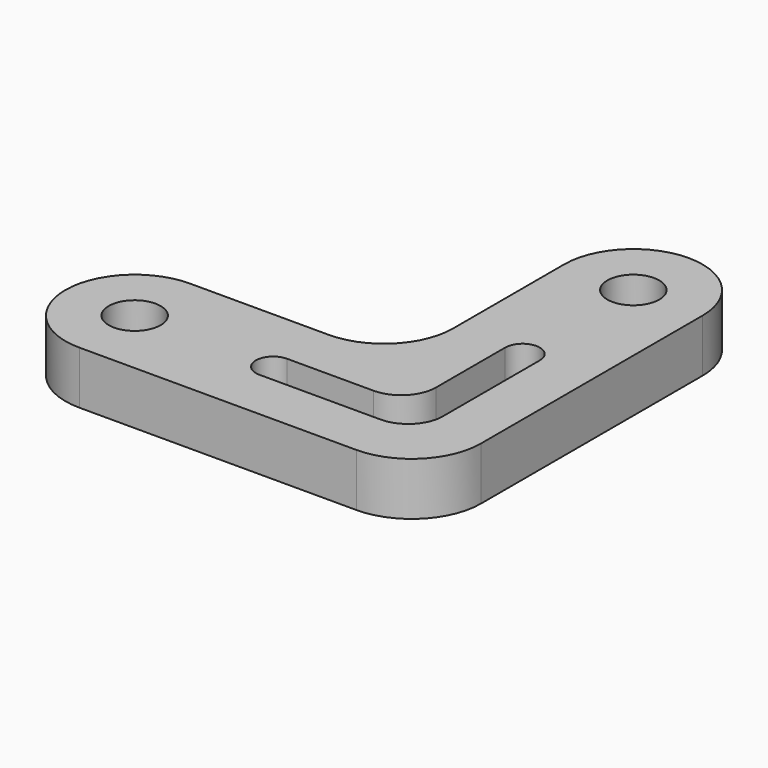
from build123d import *

# Parameters (mm, degrees)
F0_R     = 4.7625
F1_DEPTH = 9.7028


with BuildPart() as f1:
    # F0 (on Top) → F1 (new body)
    with BuildSketch(Plane.XY):
        with BuildLine():
            ThreePointArc((25.317648, 48.26209), (12.617648, 35.56209), (25.317648, 22.86209))
            Line((25.317648, 22.86209), (76.117648, 22.86209))
            ThreePointArc((76.117648, 22.86209), (85.097904, 26.581834), (88.817648, 35.56209))
            Line((88.817648, 35.56209), (88.817648, 86.36209))
            ThreePointArc((88.817648, 86.36209), (85.097904, 95.342346), (76.117648, 99.06209))
            ThreePointArc((76.117648, 99.06209), (67.137391, 95.342346), (63.417648, 86.36209))
            Line((63.417648, 86.36209), (63.417648, 60.96209))
            ThreePointArc((63.417648, 60.96209), (59.697904, 51.981834), (50.717648, 48.26209))
            Line((50.717648, 48.26209), (25.317648, 48.26209))
        make_face()
        with Locations((25.317648, 35.56209)):
            Circle(F0_R, mode=Mode.SUBTRACT)
        with BuildLine():
            Line((79.292648, 60.96209), (79.292648, 38.73709))
            ThreePointArc((79.292648, 38.73709), (77.432776, 34.246962), (72.942648, 32.38709))
            Line((72.942648, 32.38709), (50.717648, 32.38709))
            ThreePointArc((50.717648, 32.38709), (47.542648, 35.56209), (50.717648, 38.73709))
            Line((50.717648, 38.73709), (66.592648, 38.73709))
            ThreePointArc((66.592648, 38.73709), (71.082776, 40.596962), (72.942648, 45.08709))
            Line((72.942648, 45.08709), (72.942648, 60.96209))
            ThreePointArc((72.942648, 60.96209), (76.117648, 64.13709), (79.292648, 60.96209))
        make_face(mode=Mode.SUBTRACT)
        with BuildLine():
            ThreePointArc((72.942648, 82.812332), (74.173365, 90.709638), (80.880148, 86.36209))
            ThreePointArc((80.880148, 86.36209), (80.465195, 84.417808), (79.292648, 82.812332))
            ThreePointArc((79.292648, 82.812332), (76.117648, 81.59959), (72.942648, 82.812332))
        make_face(mode=Mode.SUBTRACT)
    extrude(amount=F1_DEPTH)


solid = f1.part
